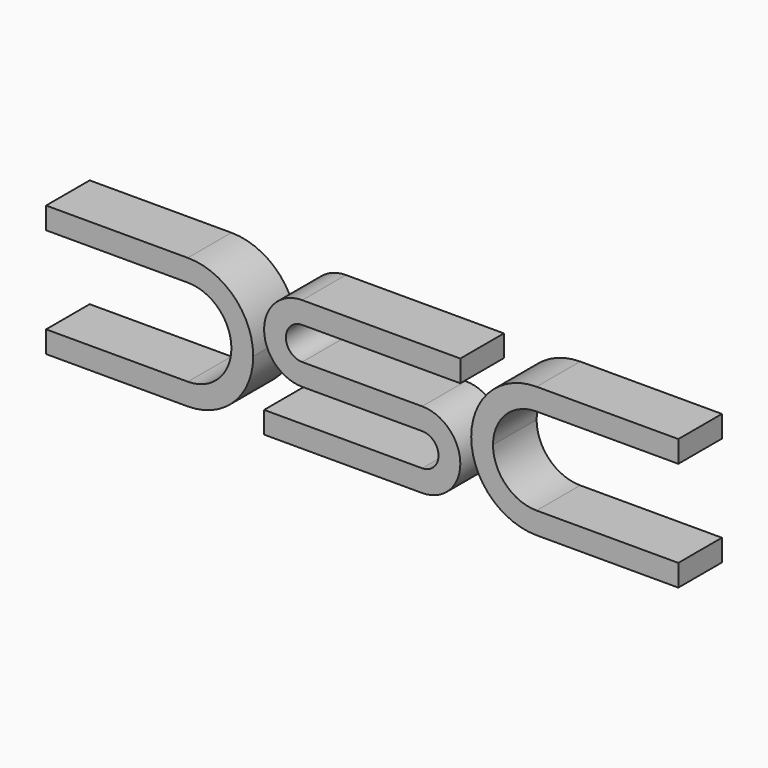
from build123d import *

# Parameters (mm, degrees)
F1_DEPTH = 5


with BuildPart() as f1:
    # F0 (on Front) → F1 (new body)
    with BuildSketch(Plane.XZ):
        with BuildLine():
            Line((-11, 6), (-24, 6))
            ThreePointArc((-24, 6), (-28.2426406871, 4.2426406871), (-30, 0))
            ThreePointArc((-30, 0), (-28.2426406871, -4.2426406871), (-24, -6))
            Line((-24, -6), (-11, -6))
            Line((-11, -6), (-11, -4))
            Line((-11, -4), (-24, -4))
            ThreePointArc((-24, -4), (-26.8284271247, -2.8284271247), (-28, 0))
            ThreePointArc((-28, 0), (-26.8284271247, 2.8284271247), (-24, 4))
            Line((-24, 4), (-11, 4))
            Line((-11, 4), (-11, 6))
        make_face()
    extrude(amount=F1_DEPTH)


with BuildPart() as f1b:
    # F0 (on Front) → F1, piece 2 (new body)
    with BuildSketch(Plane.XZ):
        with BuildLine():
            ThreePointArc((-5.5, 1), (-7, 2.5), (-5.5, 4))
            Line((-5.5, 4), (9, 4))
            Line((9, 4), (9, 6))
            Line((9, 6), (-5.5, 6))
            ThreePointArc((-5.5, 6), (-9, 2.5), (-5.5, -1))
            Line((-5.5, -1), (5.5, -1))
            ThreePointArc((5.5, -1), (7, -2.5), (5.5, -4))
            Line((5.5, -4), (-9, -4))
            Line((-9, -4), (-9, -6))
            Line((-9, -6), (5.5, -6))
            ThreePointArc((5.5, -6), (9, -2.5), (5.5, 1))
            Line((5.5, 1), (-5.5, 1))
        make_face()
    extrude(amount=F1_DEPTH)


with BuildPart() as f1c:
    # F0 (on Front) → F1, piece 3 (new body)
    with BuildSketch(Plane.XZ):
        with BuildLine():
            ThreePointArc((30, 0), (28.2426406871, 4.2426406871), (24, 6))
            Line((24, 6), (11, 6))
            Line((11, 6), (11, 4))
            Line((11, 4), (24, 4))
            ThreePointArc((24, 4), (26.8284271247, 2.8284271247), (28, 0))
            ThreePointArc((28, 0), (26.8284271247, -2.8284271247), (24, -4))
            Line((24, -4), (11, -4))
            Line((11, -4), (11, -6))
            Line((11, -6), (24, -6))
            ThreePointArc((24, -6), (28.2426406871, -4.2426406871), (30, 0))
        make_face()
    extrude(amount=F1_DEPTH)


with BuildPart() as f1_1:
    # F2: moved
    add(f1.part.moved(Location((40, 0, 0))))


with BuildPart() as f1c_1:
    # F3: moved
    add(f1c.part.moved(Location((-40, 0, 0))))


with BuildPart() as f1c_2:
    # F4: moved
    add(f1c_1.part.moved(Location((0, 0, 8))))


with BuildPart() as f1_2:
    # F4: moved
    add(f1_1.part.moved(Location((0, 0, 8))))


with BuildPart() as f1b_1:
    # F4: moved
    add(f1b.part.moved(Location((0, 0, 8))))


solid = Compound([f1c_2.part, f1_2.part, f1b_1.part])
